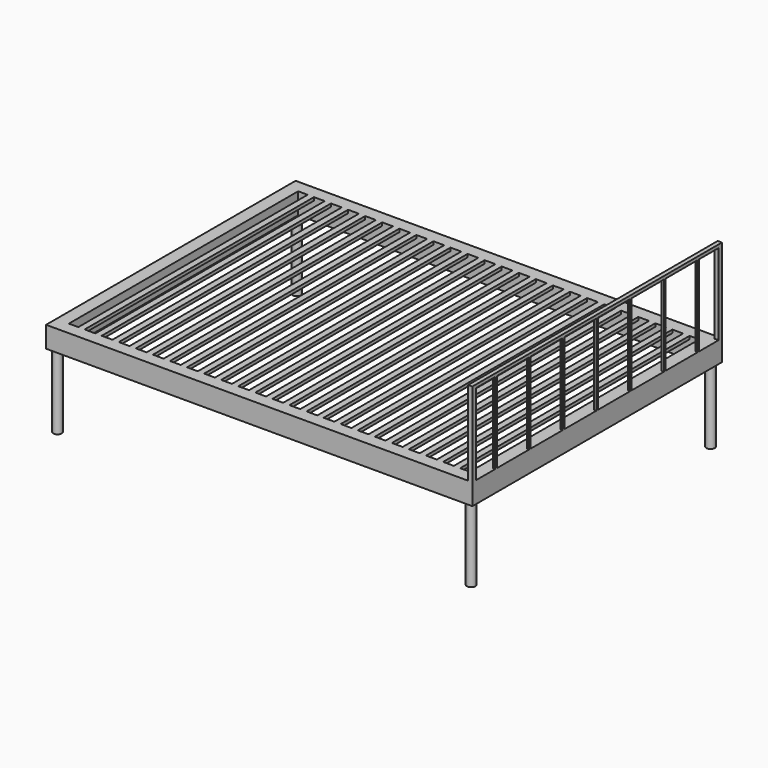
from build123d import *

# Parameters (mm, degrees)
F0_W     = 2023
F0_H     = 1480
F0_W_2   = 30
F0_H_2   = 1360
F1_DEPTH = 15
F2_DEPTH = 100
F3_R     = 20
F4_DEPTH = 350
F5_W     = 20
F5_H     = 20
F5_W_2   = 10
F5_H_2   = 10
F6_DEPTH = 400
F7_W     = 20
F7_H     = 15
F8_DEPTH = 1480


with BuildPart() as f1:
    # F0 (on Top) → F1 (new body)
    with BuildSketch(Plane.XY):
        Rectangle(F0_W, F0_H)
        Polygon((-951.5, -680), (-951.5, 680), (-906.5, 680), (-876.5, 680), (-825.5, 680), (-795.5, 680), (-744.5, 680), (-714.5, 680), (-663.5, 680), (-633.5, 680), (-582.5, 680), (-552.5, 680), (-501.5, 680), (-471.5, 680), (-420.5, 680), (-390.5, 680), (-339.5, 680), (-309.5, 680), (-258.5, 680), (-228.5, 680), (-177.5, 680), (-147.5, 680), (-96.5, 680), (-66.5, 680), (-15.5, 680), (14.5, 680), (65.5, 680), (95.5, 680), (146.5, 680), (176.5, 680), (227.5, 680), (257.5, 680), (308.5, 680), (338.5, 680), (389.5, 680), (419.5, 680), (470.5, 680), (500.5, 680), (551.5, 680), (581.5, 680), (632.5, 680), (662.5, 680), (713.5, 680), (743.5, 680), (794.5, 680), (824.5, 680), (875.5, 680), (905.5, 680), (951.5, 680), (951.5, -680), (905.5, -680), (875.5, -680), (824.5, -680), (794.5, -680), (743.5, -680), (713.5, -680), (662.5, -680), (632.5, -680), (581.5, -680), (551.5, -680), (500.5, -680), (470.5, -680), (419.5, -680), (389.5, -680), (338.5, -680), (308.5, -680), (257.5, -680), (227.5, -680), (176.5, -680), (146.5, -680), (95.5, -680), (65.5, -680), (14.5, -680), (-15.5, -680), (-66.5, -680), (-96.5, -680), (-147.5, -680), (-177.5, -680), (-228.5, -680), (-258.5, -680), (-309.5, -680), (-339.5, -680), (-390.5, -680), (-420.5, -680), (-471.5, -680), (-501.5, -680), (-552.5, -680), (-582.5, -680), (-633.5, -680), (-663.5, -680), (-714.5, -680), (-744.5, -680), (-795.5, -680), (-825.5, -680), (-876.5, -680), (-906.5, -680), align=None, mode=Mode.SUBTRACT)
        with Locations((-891.5, 0)):
            Rectangle(F0_W_2, F0_H_2)
        with Locations((-810.5, 0)):
            Rectangle(F0_W_2, F0_H_2)
        with Locations((-729.5, 0)):
            Rectangle(F0_W_2, F0_H_2)
        with Locations((-648.5, 0)):
            Rectangle(F0_W_2, F0_H_2)
        with Locations((-567.5, 0)):
            Rectangle(F0_W_2, F0_H_2)
        with Locations((-486.5, 0)):
            Rectangle(F0_W_2, F0_H_2)
        with Locations((-405.5, 0)):
            Rectangle(F0_W_2, F0_H_2)
        with Locations((-324.5, 0)):
            Rectangle(F0_W_2, F0_H_2)
        with Locations((-243.5, 0)):
            Rectangle(F0_W_2, F0_H_2)
        with Locations((-162.5, 0)):
            Rectangle(F0_W_2, F0_H_2)
        with Locations((-81.5, 0)):
            Rectangle(F0_W_2, F0_H_2)
        with Locations((-0.5, 0)):
            Rectangle(F0_W_2, F0_H_2)
        with Locations((80.5, 0)):
            Rectangle(F0_W_2, F0_H_2)
        with Locations((161.5, 0)):
            Rectangle(F0_W_2, F0_H_2)
        with Locations((242.5, 0)):
            Rectangle(F0_W_2, F0_H_2)
        with Locations((323.5, 0)):
            Rectangle(F0_W_2, F0_H_2)
        with Locations((404.5, 0)):
            Rectangle(F0_W_2, F0_H_2)
        with Locations((485.5, 0)):
            Rectangle(F0_W_2, F0_H_2)
        with Locations((566.5, 0)):
            Rectangle(F0_W_2, F0_H_2)
        with Locations((647.5, 0)):
            Rectangle(F0_W_2, F0_H_2)
        with Locations((728.5, 0)):
            Rectangle(F0_W_2, F0_H_2)
        with Locations((809.5, 0)):
            Rectangle(F0_W_2, F0_H_2)
        with Locations((890.5, 0)):
            Rectangle(F0_W_2, F0_H_2)
    extrude(amount=-F1_DEPTH)

    # F0 (on Top) → F2 (join)
    with BuildSketch(Plane.XY):
        Rectangle(F0_W, F0_H)
        Polygon((-951.5, -680), (-951.5, 680), (-906.5, 680), (-876.5, 680), (-825.5, 680), (-795.5, 680), (-744.5, 680), (-714.5, 680), (-663.5, 680), (-633.5, 680), (-582.5, 680), (-552.5, 680), (-501.5, 680), (-471.5, 680), (-420.5, 680), (-390.5, 680), (-339.5, 680), (-309.5, 680), (-258.5, 680), (-228.5, 680), (-177.5, 680), (-147.5, 680), (-96.5, 680), (-66.5, 680), (-15.5, 680), (14.5, 680), (65.5, 680), (95.5, 680), (146.5, 680), (176.5, 680), (227.5, 680), (257.5, 680), (308.5, 680), (338.5, 680), (389.5, 680), (419.5, 680), (470.5, 680), (500.5, 680), (551.5, 680), (581.5, 680), (632.5, 680), (662.5, 680), (713.5, 680), (743.5, 680), (794.5, 680), (824.5, 680), (875.5, 680), (905.5, 680), (951.5, 680), (951.5, -680), (905.5, -680), (875.5, -680), (824.5, -680), (794.5, -680), (743.5, -680), (713.5, -680), (662.5, -680), (632.5, -680), (581.5, -680), (551.5, -680), (500.5, -680), (470.5, -680), (419.5, -680), (389.5, -680), (338.5, -680), (308.5, -680), (257.5, -680), (227.5, -680), (176.5, -680), (146.5, -680), (95.5, -680), (65.5, -680), (14.5, -680), (-15.5, -680), (-66.5, -680), (-96.5, -680), (-147.5, -680), (-177.5, -680), (-228.5, -680), (-258.5, -680), (-309.5, -680), (-339.5, -680), (-390.5, -680), (-420.5, -680), (-471.5, -680), (-501.5, -680), (-552.5, -680), (-582.5, -680), (-633.5, -680), (-663.5, -680), (-714.5, -680), (-744.5, -680), (-795.5, -680), (-825.5, -680), (-876.5, -680), (-906.5, -680), align=None, mode=Mode.SUBTRACT)
    extrude(amount=-F2_DEPTH)

    # F3 (on face) → F4 (join)
    with BuildSketch(Plane(origin=(0, 0, -100), x_dir=(1, 0, 0), z_dir=(0, 0, -1))):
        with Locations((-981.5, 710)):
            Circle(F3_R)
        with Locations((981.5, 710)):
            Circle(F3_R)
        with Locations((981.5, -710)):
            Circle(F3_R)
        with Locations((-981.5, -710)):
            Circle(F3_R)
    extrude(amount=F4_DEPTH)

    # F5 (on face) → F6 (join)
    with BuildSketch(Plane.XY):
        with Locations((1001.5, 730)):
            Rectangle(F5_W, F5_H)
        with Locations((1001.5, -730)):
            Rectangle(F5_W, F5_H)
        with Locations((1006.5, -600)):
            Rectangle(F5_W_2, F5_H_2)
        with Locations((1006.5, -400)):
            Rectangle(F5_W_2, F5_H_2)
        with Locations((1006.5, -200)):
            Rectangle(F5_W_2, F5_H_2)
        with Locations((1006.5, 0)):
            Rectangle(F5_W_2, F5_H_2)
        with Locations((1006.5, 200)):
            Rectangle(F5_W_2, F5_H_2)
        with Locations((1006.5, 400)):
            Rectangle(F5_W_2, F5_H_2)
        with Locations((1006.5, 600)):
            Rectangle(F5_W_2, F5_H_2)
    extrude(amount=F6_DEPTH)

    # F7 (on face) → F8 (join, through all)
    with BuildSketch(Plane.XZ.offset(740)):
        with Locations((1001.5, 392.5)):
            Rectangle(F7_W, F7_H)
    extrude(amount=-F8_DEPTH)


solid = f1.part
